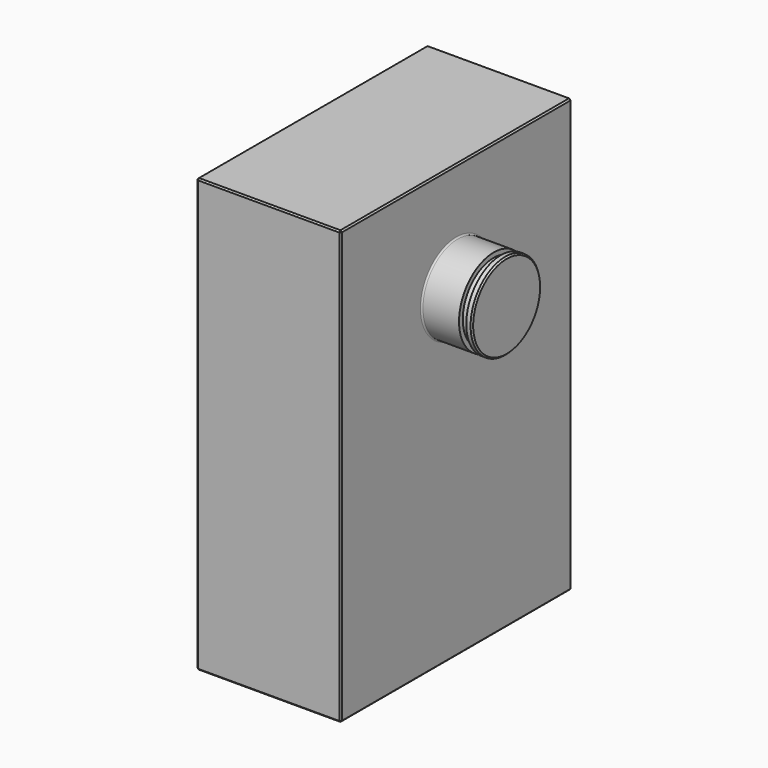
from build123d import *

# Parameters (mm, degrees)
F0_W          = 20
F0_H          = 60
F1_DEPTH      = 20
F1_DEPTH_BACK = 20
F2_SIZE       = 0.2
F3_R          = 6
F4_DEPTH      = 17
F4_DEPTH_BACK = 17
F5_R          = 0.2
F6_SIZE       = 0.2
F8_W          = 1
F8_H          = 0.65


with BuildPart() as f1:
    # F0 (on Front) → F1 (new body, two sides)
    with BuildSketch(Plane.XZ) as f1_sk:
        Rectangle(F0_W, F0_H)
    extrude(amount=F1_DEPTH)
    extrude(f1_sk.sketch, amount=-F1_DEPTH_BACK)

    # F2
    f2_edges = [f1.edges().sort_by_distance(p)[0] for p in [
        (10, 0, 30),
        (-10, 0, -30),
        (10, 0, -30),
        (-10, 0, 30),
        (0, 20, 30),
        (0, -20, 30),
        (0, 20, -30),
        (0, -20, -30),
        (-10, 20, 0),
        (-10, -20, 0),
        (10, 20, 0),
        (10, -20, 0),
    ]]
    chamfer(f2_edges, length=F2_SIZE)

    # F3 (on Right) → F4 (join, two sides)
    with BuildSketch(Plane.YZ) as f4_sk:
        with Locations((0, 15)):
            Circle(F3_R)
    extrude(amount=-F4_DEPTH)
    extrude(f4_sk.sketch, amount=F4_DEPTH_BACK)

    # F5
    f5_edges = [f1.edges().sort_by_distance(p)[0] for p in [
        (-10, -6, 15),
        (10, -6, 15),
    ]]
    fillet(f5_edges, radius=F5_R)

    # F6
    f6_edges = [f1.edges().sort_by_distance(p)[0] for p in [
        (17, -6, 15),
        (-17, -6, 15),
    ]]
    chamfer(f6_edges, length=F6_SIZE)

    # F8 (on offset) → F9 (revolve, cut)
    with BuildSketch(Plane.XY.offset(15)):
        with Locations((-15.7, 5.675)):
            Rectangle(F8_W, F8_H)
        with Locations((15.7, 5.675)):
            Rectangle(F8_W, F8_H)
    revolve(axis=Axis((0.9265579283, 0, 15), (1, 0, 0)), mode=Mode.SUBTRACT)


solid = f1.part
